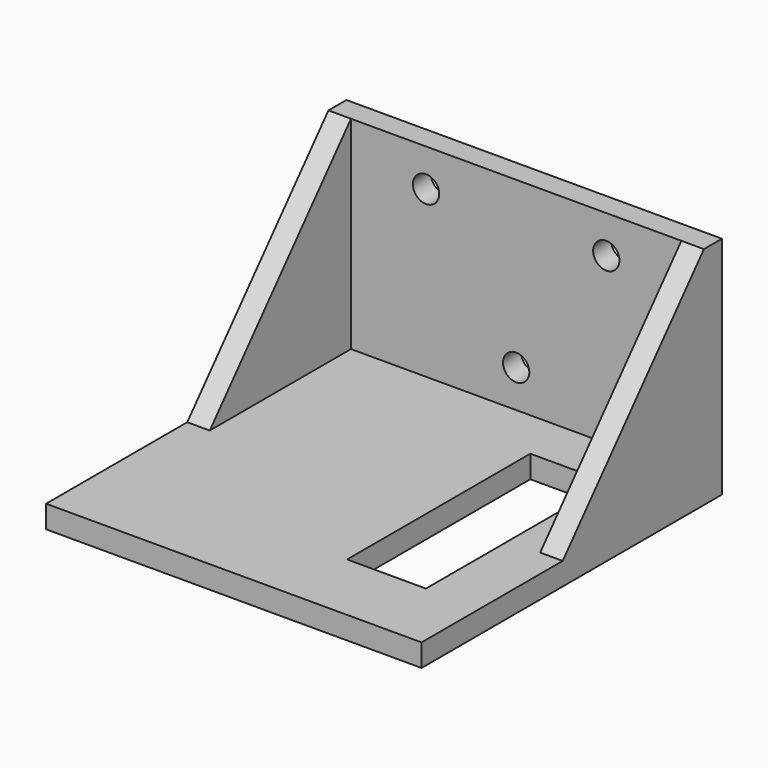
from build123d import *

# Parameters (mm, degrees)
F0_W     = 50
F0_H     = 3
F1_DEPTH = 30
F0_H_2   = 47
F0_W_2   = 10.5
F0_H_3   = 30.5
F2_DEPTH = 3
F4_DEPTH = 3
F6_DEPTH = 3
F7_R     = 1.75
F8_DEPTH = 3


with BuildPart() as f1:
    # F0 (on Top) → F1 (new body)
    with BuildSketch(Plane.XY):
        with Locations((-17.8984425962, 25.9814620614)):
            Rectangle(F0_W, F0_H)
    extrude(amount=F1_DEPTH)

    # F0 (on Top) → F2 (join)
    with BuildSketch(Plane.XY):
        with Locations((-17.8984425962, 0.9814620614)):
            Rectangle(F0_W, F0_H_2)
        with Locations((-30.4321678579, 2.4814620614)):
            Rectangle(F0_W_2, F0_H_3, mode=Mode.SUBTRACT)
        with Locations((-5.3647173345, 2.4814620614)):
            Rectangle(F0_W_2, F0_H_3, mode=Mode.SUBTRACT)
        with Locations((-30.4321678579, 2.4814620614)):
            Rectangle(F0_W_2, F0_H_3)
    extrude(amount=F2_DEPTH)

    # F3 (on face) → F4 (join)
    with BuildSketch(Plane(origin=(-42.8984425962, 0, 0), x_dir=(0, -1, 0), z_dir=(-1, 0, 0))):
        Polygon((-0.9814620614, 3), (-24.4814620614, 30), (-24.4814620614, 3), align=None)
    extrude(amount=-F4_DEPTH)

    # F5 (on face) → F6 (join)
    with BuildSketch(Plane.YZ.offset(7.1015574038)):
        Polygon((24.4814620614, 3), (24.4814620614, 30), (0.9814620614, 3), align=None)
    extrude(amount=-F6_DEPTH)

    # F7 (on face) → F8 (cut)
    with BuildSketch(Plane.XZ.offset(-24.4814620614)):
        with Locations((-29.8984425962, 25)):
            Circle(F7_R)
        with Locations((-5.8984425962, 25)):
            Circle(F7_R)
        with Locations((-17.8984425962, 8)):
            Circle(F7_R)
    extrude(amount=-F8_DEPTH, mode=Mode.SUBTRACT)


solid = f1.part
